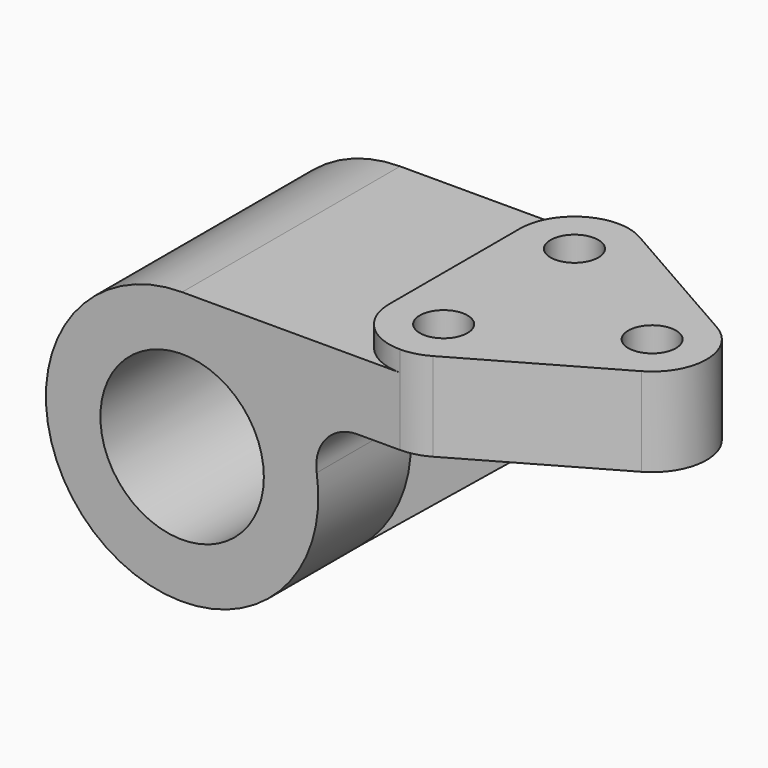
from build123d import *

# Parameters (mm, degrees)
F0_R          = 19.05
F1_DEPTH      = 31.75
F2_DEPTH      = 4.7625
F3_R          = 5.5626
F4_DEPTH      = 15.875
F4_DEPTH_BACK = 4.7752
F5_DEPTH      = 63.501


with BuildPart() as f1:
    # F0 (on Front) → F1 (new body, symmetric)
    with BuildSketch(Plane.XZ):
        with BuildLine():
            Line((50.8, 31.75), (0, 31.75))
            ThreePointArc((0, 31.75), (-29.9181979044, -10.6284492827), (20.0304912791, -24.6341616281))
            ThreePointArc((20.0304912791, -24.6341616281), (29.6377097996, -11.3872146654), (31.3720103364, 4.8846153846))
            ThreePointArc((31.3720103364, 4.8846153846), (33.5488565837, 12.545475629), (40.7836134373, 15.875))
            Line((40.7836134373, 15.875), (50.8, 15.875))
            Line((50.8, 15.875), (50.8, 31.75))
        make_face()
        Circle(F0_R, mode=Mode.SUBTRACT)
    extrude(amount=F1_DEPTH, both=True)

    # F0 (on Front) → F2 (join, symmetric)
    with BuildSketch(Plane.XZ):
        with BuildLine():
            ThreePointArc((31.3720103364, 4.8846153846), (29.6377097996, -11.3872146654), (20.0304912791, -24.6341616281))
            Line((20.0304912791, -24.6341616281), (69.85, 15.875))
            Line((69.85, 15.875), (50.8, 15.875))
            Line((50.8, 15.875), (40.7836134373, 15.875))
            ThreePointArc((40.7836134373, 15.875), (33.5488565837, 12.545475629), (31.3720103364, 4.8846153846))
        make_face()
    extrude(amount=F2_DEPTH, both=True)

    # F3 (on face) → F4 (join, two sides)
    with BuildSketch(Plane.XY.offset(31.75)) as f4_sk:
        with BuildLine():
            ThreePointArc((57.0991554441, 30.0777214642), (54.0586759125, 31.3248128824), (50.8, 31.75))
            Line((50.8, 31.75), (50.8, 24.6126))
            ThreePointArc((50.8, 24.6126), (54.733352181, 22.983352181), (56.3626, 19.05))
            ThreePointArc((56.3626, 19.05), (54.733352181, 15.116647819), (50.8, 13.4874))
            Line((50.8, 13.4874), (50.8, -13.4874))
            ThreePointArc((50.8, -13.4874), (54.733352181, -15.116647819), (56.3626, -19.05))
            ThreePointArc((56.3626, -19.05), (54.733352181, -22.983352181), (50.8, -24.6126))
            Line((50.8, -24.6126), (50.8, -31.75))
            ThreePointArc((50.8, -31.75), (54.0586759125, -31.3248128824), (57.0991554441, -30.0777214642))
            Line((57.0991554441, -30.0777214642), (90.4493554441, -11.0277214642))
            ThreePointArc((90.4493554441, -11.0277214642), (96.8502, 0), (90.4493554441, 11.0277214642))
            Line((90.4493554441, 11.0277214642), (57.0991554441, 30.0777214642))
        make_face()
        with Locations((84.1502, 0)):
            Circle(F3_R, mode=Mode.SUBTRACT)
        with BuildLine():
            Line((50.8, 24.6126), (50.8, 31.75))
            ThreePointArc((50.8, 31.75), (41.8197438789, 28.0302561211), (38.1, 19.05))
            Line((38.1, 19.05), (38.1, -19.05))
            ThreePointArc((38.1, -19.05), (41.8197438789, -28.0302561211), (50.8, -31.75))
            Line((50.8, -31.75), (50.8, -24.6126))
            ThreePointArc((50.8, -24.6126), (45.2374, -19.05), (50.8, -13.4874))
            Line((50.8, -13.4874), (50.8, 13.4874))
            ThreePointArc((50.8, 13.4874), (45.2374, 19.05), (50.8, 24.6126))
        make_face()
    extrude(amount=-F4_DEPTH)
    extrude(f4_sk.sketch, amount=F4_DEPTH_BACK)

    # F5 (cut, through all): faces of the model
    f5_faces = [f1.faces().sort_by_distance(p)[0] for p in [
        (48.4391592362, -19.05, 31.75),
        (48.4391592362, 19.05, 31.75),
    ]]
    extrude(f5_faces, amount=-F5_DEPTH, mode=Mode.SUBTRACT)


solid = f1.part
